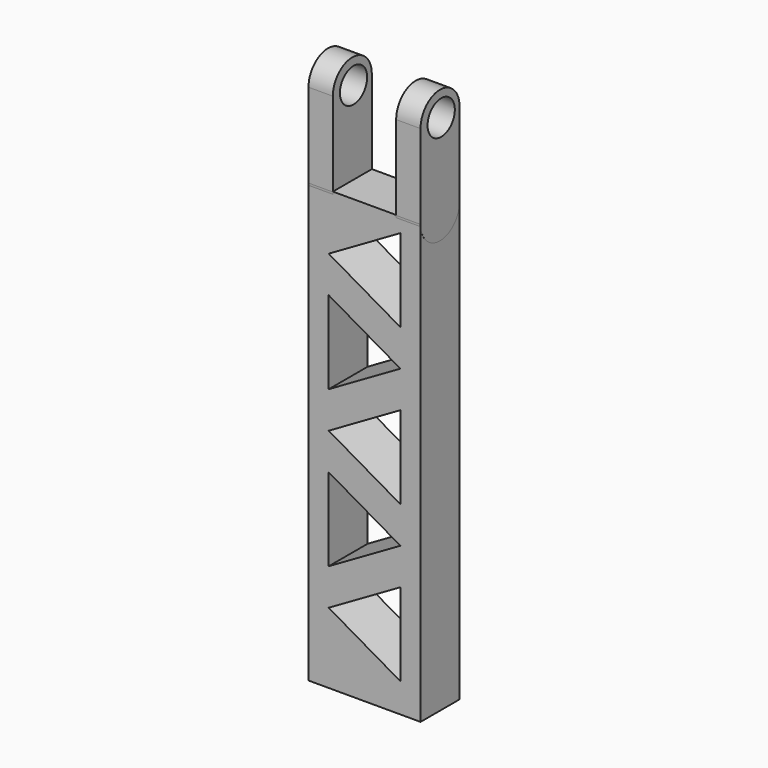
from build123d import *

# Parameters (mm, degrees)
SKETCH039_R      = 3.5
EXTRUDE058_DEPTH = 5
SKETCH029_W      = 23
SKETCH029_H      = 90
EXTRUDE028_DEPTH = 10


with BuildPart() as union_centro_arriba:
    # Sketch039 → Extrude058 (new body)
    with BuildSketch(Plane(origin=(0, 0, 0), x_dir=(0, -1, 0), z_dir=(-1, 0, 0))):
        with BuildLine():
            ThreePointArc((2.488294, 145.254171), (-2.511706, 150.254171), (-7.511706, 145.254171))
            Line((-7.511706, 145.254171), (-7.511706, 127.933024))
            ThreePointArc((-7.511706, 127.933024), (-2.511706, 122.933024), (2.488294, 127.933024))
            Line((2.488294, 145.254171), (2.488294, 127.933024))
        make_face()
        with Locations((-2.820375, 145.089175)):
            Circle(SKETCH039_R, mode=Mode.SUBTRACT)
    extrude(amount=EXTRUDE058_DEPTH)


with BuildPart() as union_centro_arriba_1:
    # Extrude058 placement: moved
    add(union_centro_arriba.part.moved(Location((55, -0.03, 0))))


with BuildPart() as union_centro_arriba001:
    # Link022 base: copy of union centro_arriba
    add(union_centro_arriba_1.part)


with BuildPart() as union_centro_arriba001_1:
    # Link022 placement: moved
    add(union_centro_arriba001.part.moved(Location((18, 0, 0))))


with BuildPart() as obj1:
    # Sketch029 → Extrude028 (new body)
    with BuildSketch(Plane.XZ):
        with Locations((68.040845, 88.110787)):
            Rectangle(SKETCH029_W, SKETCH029_H)
        Polygon((60.680845, 57.610787), (75.403277, 66.110787), (75.403277, 49.110787), align=None, mode=Mode.SUBTRACT)
        Polygon((60.678413, 65.110787), (60.678413, 82.110787), (75.400845, 73.610787), align=None, mode=Mode.SUBTRACT)
        Polygon((60.680845, 89.610787), (75.403277, 98.110787), (75.403277, 81.110787), align=None, mode=Mode.SUBTRACT)
        Polygon((60.678413, 97.110787), (60.678413, 114.110787), (75.400845, 105.610787), align=None, mode=Mode.SUBTRACT)
        Polygon((60.680845, 121.610787), (75.403277, 130.110787), (75.403277, 113.110787), align=None, mode=Mode.SUBTRACT)
    extrude(amount=EXTRUDE028_DEPTH)


with BuildPart() as obj1_1:
    # Extrude028 placement: moved
    add(obj1.part.moved(Location((-6.55, 7.5, -5.11))))

    # Fusion: union union centro_arriba, union centro_arriba001
    add(union_centro_arriba_1.part)
    add(union_centro_arriba001_1.part)


solid = obj1_1.part
